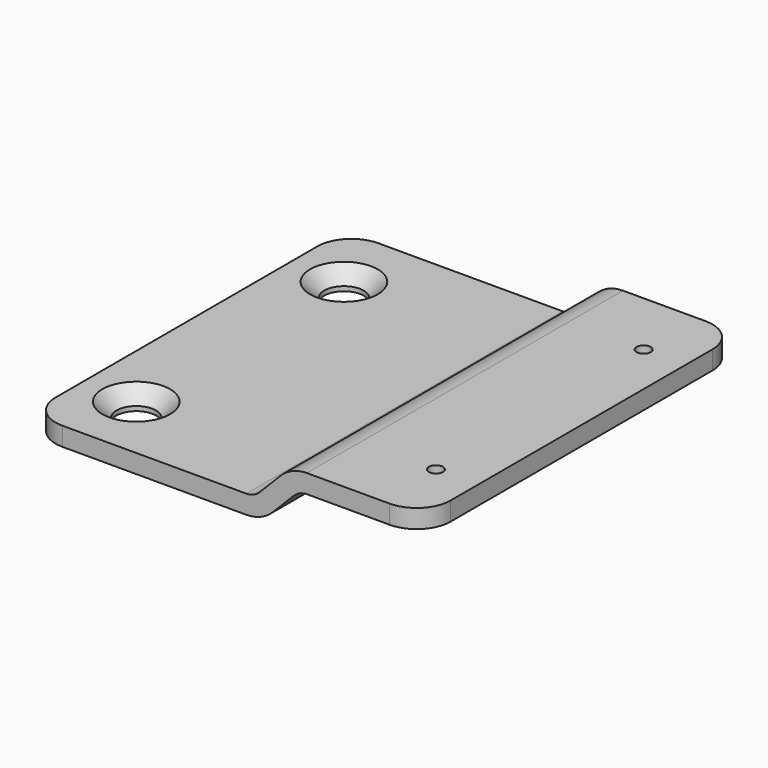
from build123d import *

# Parameters (mm, degrees)
F1_DEPTH       = 70
F2_R           = 6
F4_D           = 2.5
F6_D           = 7
F6_CSINK_D     = 12
F6_CSINK_ANGLE = 90


with BuildPart() as f1:
    # F0 (on Front) → F1 (new body)
    with BuildSketch(Plane.XZ):
        with BuildLine():
            Line((-30.1981142707, 3.3), (-30.1981142707, 0))
            Line((-30.1981142707, 0), (8.4236085474, 0))
            ThreePointArc((8.4236085474, 0), (10.9672225435, 0.509841723), (13.117854557, 1.9605976245))
            Line((13.117854557, 1.9605976245), (16.8330399063, 5.7197011877))
            ThreePointArc((16.8330399063, 5.7197011877), (17.9083559131, 6.4450791385), (19.1801629111, 6.7))
            Line((19.1801629111, 6.7), (39.8018857293, 6.7))
            Line((39.8018857293, 6.7), (39.8018857293, 10))
            Line((39.8018857293, 10), (19.1359616287, 10))
            ThreePointArc((19.1359616287, 10), (16.5778868369, 9.4840984015), (14.4197256433, 8.0170464726))
            Line((14.4197256433, 8.0170464726), (10.7725102503, 4.2914767637))
            ThreePointArc((10.7725102503, 4.2914767637), (9.6934296535, 3.5579507992), (8.4143922576, 3.3))
            Line((8.4143922576, 3.3), (-30.1981142707, 3.3))
        make_face()
    extrude(amount=F1_DEPTH)

    # F2
    f2_edges = [f1.edges().sort_by_distance(p)[0] for p in [
        (-30.198114, 0, 1.65),
        (-30.198114, -70, 1.65),
        (39.801886, -70, 8.35),
        (39.801886, 0, 8.35),
    ]]
    fillet(f2_edges, radius=F2_R)

    # F4 (through all)
    with Locations(Plane.XY.offset(10)):
        with Locations((32.4018857293, -12), (32.4018857293, -58)):
            Hole(F4_D / 2)

    # F6 (through all)
    with Locations(Plane.XY.offset(3.3)):
        with Locations((-20.6981142707, -12), (-20.6981142707, -58)):
            CounterSinkHole(F6_D / 2, F6_CSINK_D / 2, counter_sink_angle=F6_CSINK_ANGLE)


solid = f1.part
